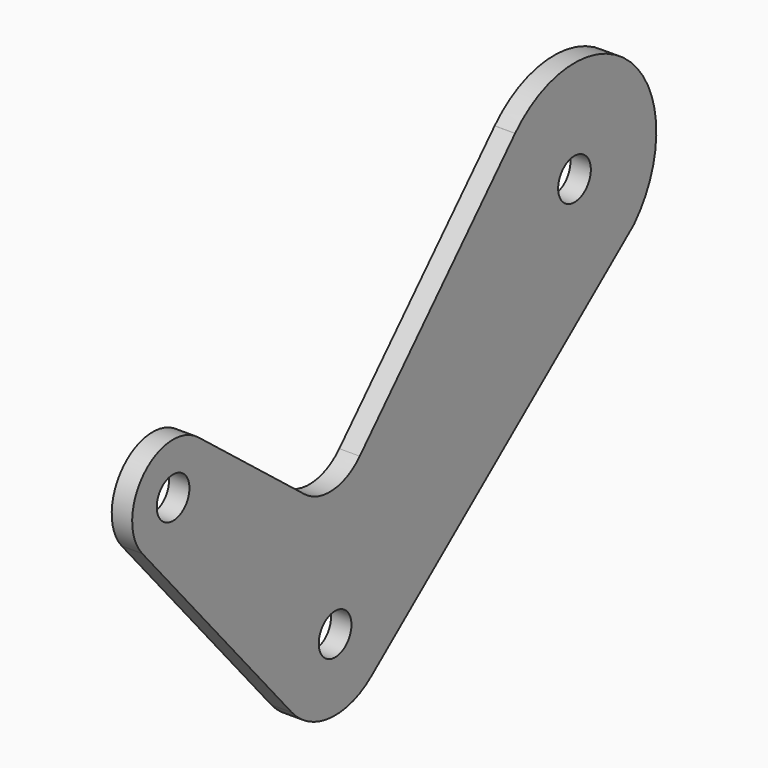
from build123d import *

# Parameters (mm, degrees)
F0_R     = 3.175
F1_DEPTH = 3.175


with BuildPart() as f1:
    # F0 (on Right) → F1 (new body)
    with BuildSketch(Plane.YZ):
        with BuildLine():
            Line((-0.683293, -22.206229), (-21.279692, -6.062372))
            ThreePointArc((-21.279692, -6.062372), (-31.89988, -6.809987), (-32.223099, -17.45155))
            Line((-32.223099, -17.45155), (-32.127586, -17.5618))
            Line((-32.127586, -17.5618), (-3.144408, -51.016742))
            ThreePointArc((-3.144408, -51.016742), (4.260096, -54.808331), (12.221904, -52.397431))
            Line((12.221904, -52.397431), (59.870195, -14.049133))
            Line((59.870195, -14.049133), (63.249417, -11.329467))
            ThreePointArc((63.249417, -11.329467), (62.611086, 11.0927), (40.187851, 10.493082))
            ThreePointArc((40.187851, 10.493082), (40.178419, 10.48314), (40.168995, 10.47319))
            Line((40.168995, 10.47319), (10.036033, -21.370629))
            ThreePointArc((10.036033, -21.370629), (4.839042, -23.875239), (-0.683293, -22.206229))
        make_face()
        with Locations((5.254567, -43.740418)):
            Circle(F0_R, mode=Mode.SUBTRACT)
        with Locations((-26.176328, -12.30952)):
            Circle(F0_R, mode=Mode.SUBTRACT)
        with Locations((51.699796, -0.4381)):
            Circle(F0_R, mode=Mode.SUBTRACT)
    extrude(amount=F1_DEPTH)


solid = f1.part
